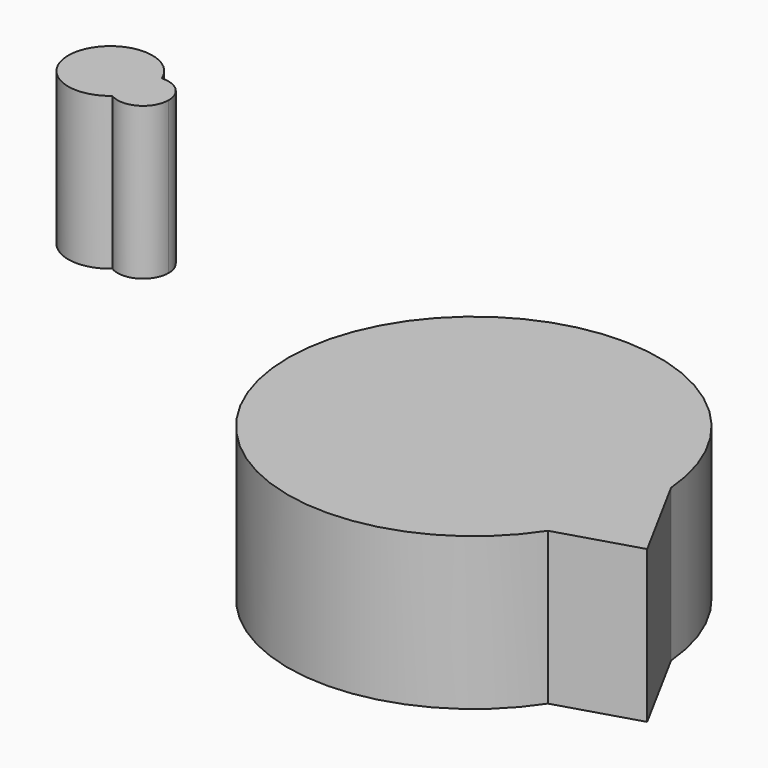
from build123d import *

# Parameters (mm, degrees)
F1_DEPTH = 25.4
F3_DEPTH = 25.4


with BuildPart() as f1:
    # F0 (on Top) → F1 (new body)
    with BuildSketch(Plane.XY):
        with BuildLine():
            Line((39.2790734768, -12.9209617153), (30.8977032097, 2.5353523981))
            ThreePointArc((30.8977032097, 2.5353523981), (-30.0487349208, 7.6269000962), (25.9484457544, -16.963909878))
            Line((25.9484457544, -16.963909878), (39.2790734768, -12.9209617153))
        make_face()
    extrude(amount=F1_DEPTH)


with BuildPart() as f3:
    # F2 (on Top) → F3 (new body)
    with BuildSketch(Plane.XY):
        with BuildLine():
            ThreePointArc((-95.08007756, 43.4252323122), (-93.2777942426, 45.8220338258), (-92.6382490548, 48.7518571317))
            ThreePointArc((-92.6382490548, 48.7518571317), (-92.7595412395, 50.052173519), (-93.1192327695, 51.3076242367))
            ThreePointArc((-93.1192327695, 51.3076242367), (-96.9819097184, 48.083425587), (-95.08007756, 43.4252323122))
        make_face()
        with BuildLine():
            ThreePointArc((-93.1192327695, 51.3076242367), (-92.7595412395, 50.052173519), (-92.6382490548, 48.7518571317))
            ThreePointArc((-92.6382490548, 48.7518571317), (-93.2777942426, 45.8220338258), (-95.08007756, 43.4252323122))
            ThreePointArc((-95.08007756, 43.4252323122), (-90.767443597, 43.3341955882), (-88.5844178424, 47.0546119545))
            ThreePointArc((-88.5844178424, 47.0546119545), (-89.9307953042, 50.1631751232), (-93.1192327695, 51.3076242367))
        make_face()
        with BuildLine():
            ThreePointArc((-95.08007756, 43.4252323122), (-96.9819097184, 48.083425587), (-93.1192327695, 51.3076242367))
            ThreePointArc((-93.1192327695, 51.3076242367), (-106.4916838626, 50.449102309), (-95.08007756, 43.4252323122))
        make_face()
    extrude(amount=F3_DEPTH)


solid = Compound([f1.part, f3.part])
